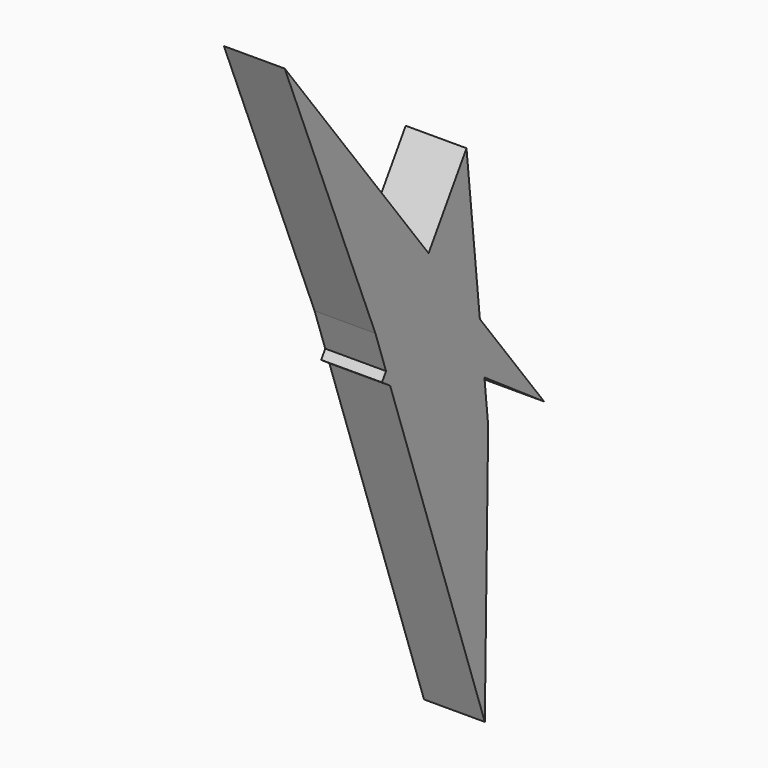
from build123d import *

# Parameters (mm, degrees)
F1_DEPTH = 25.4


with BuildPart() as f1:
    # F0 (on Right) → F1 (new body)
    with BuildSketch(Plane.YZ):
        Polygon((-34.4482409456, -28.3169634459), (-36.5716814995, -31.596750021), (-32.3062588394, -34.5458548038), align=None)
        Polygon((-34.4482409456, -28.3169634459), (-32.3062588394, -34.5458548038), (18.8768748194, -69.9337720871), (16.9203405898, -51.5107249157), (-28.9372427897, -19.8048825524), align=None)
        Polygon((18.8768748194, -69.9337720871), (-32.3062588394, -34.5458548038), (17.1237699687, -178.2885491848), align=None)
        Polygon((-40.0073602796, -12.1510252357), (-34.4482409456, -28.3169634459), (-28.9372427897, -19.8048825524), align=None)
        Polygon((-40.0073602796, -12.1510252357), (-28.9372427897, -19.8048825524), (-12.2332527089, 5.9954735336), (-87.3578041792, 104.4562384486), align=None)
        Polygon((-12.2332527089, 5.9954735336), (-28.9372427897, -19.8048825524), (16.9203405898, -51.5107249157), (14.5396798196, -29.0940326822), align=None)
        Polygon((14.5396798196, -29.0940326822), (16.9203405898, -51.5107249157), (48.0821750748, -73.0559555868), align=None)
        Polygon((7.5655095279, 36.5758985281), (-12.2332527089, 5.9954735336), (14.5396798196, -29.0940326822), align=None)
    extrude(amount=F1_DEPTH)


solid = f1.part
